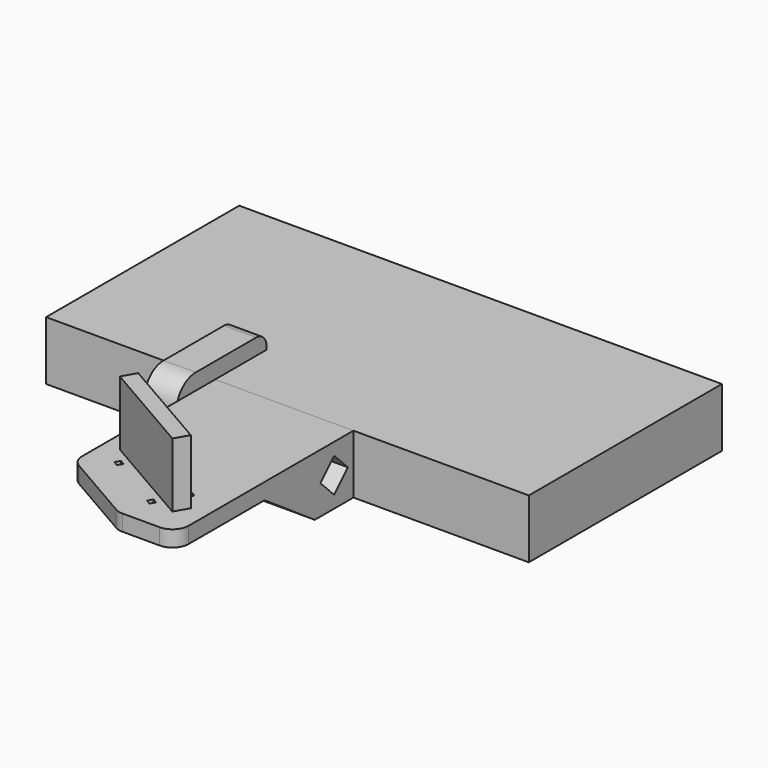
from build123d import *

# Parameters (mm, degrees)
PAD_DEPTH       = 40
SKETCH001_W     = 300
SKETCH001_H     = 150
PAD001_DEPTH    = 36.6
PAD002_DEPTH    = 3
PAD003_DEPTH    = 33.6
POCKET_DEPTH    = 86.001
POCKET001_DEPTH = 86.001
SKETCH006_W     = 45.8
SKETCH006_H     = 36.6
PAD004_DEPTH    = 30
POCKET002_DEPTH = 3
FILLET_R        = 10
PAD005_DEPTH    = 20
PAD006_DEPTH    = 20
FILLET001_R     = 15
FILLET002_R     = 8


with BuildPart() as dish_rack_body:
    # Sketch → Pad (new body)
    with BuildSketch(Plane.XY):
        Polygon((30.310889, -113), (-30.310889, -78), (-35.110889, -86.313844), (25.510889, -121.313844), align=None)
    extrude(amount=PAD_DEPTH)


with BuildPart() as kitchen_counter:
    # Sketch001 → Pad001 (new body)
    with BuildSketch(Plane.XY):
        with Locations((0, 75)):
            Rectangle(SKETCH001_W, SKETCH001_H)
    extrude(amount=-PAD001_DEPTH)


with BuildPart() as rack_bracket:
    # Sketch002 → Pad002 (new body)
    with BuildSketch(Plane.XY):
        Polygon((-45, 0), (41, 0), (41, -138), (5.229473, -138), (-45, -109), align=None)
    extrude(amount=-PAD002_DEPTH)

    # Sketch003 (on Face7 of Pad002) → Pad003 (join)
    with BuildSketch(Plane(origin=(0, 0, -3), x_dir=(1, 0, 0), z_dir=(0, 0, -1))):
        Polygon((-45, 109), (-45, 0), (41, 0), (41, 138), (5.229473, 138), align=None)
        Polygon((-35, 30), (31, 30), (31, 128), (7.908965, 128), (-35, 103.226497), align=None, mode=Mode.SUBTRACT)
    extrude(amount=PAD003_DEPTH)

    # Sketch004 (on Face10 of Pad003) → Pocket (cut, through all)
    with BuildSketch(Plane(origin=(-45, 0, 0), x_dir=(0, -1, 0), z_dir=(-1, 0, 0))):
        Polygon((30, -36.6), (69, -10), (138, -10), (138, -36.6), align=None)
    extrude(amount=-POCKET_DEPTH, mode=Mode.SUBTRACT)

    # Sketch005 (on Face3 of Pocket) → Pocket001 (cut, through all)
    with BuildSketch(Plane.YZ.offset(41)):
        Polygon((-15, -7.622688), (-25.677312, -18.3), (-15, -28.977312), (-4.322688, -18.3), align=None)
    extrude(amount=-POCKET001_DEPTH, mode=Mode.SUBTRACT)

    # Sketch006 (on Face2 of Pocket001) → Pad004 (join)
    with BuildSketch(Plane(origin=(0, 0, 0), x_dir=(-1, 0, 0), z_dir=(0, 1, 0))):
        with Locations((2, -18.3)):
            Rectangle(SKETCH006_W, SKETCH006_H)
    extrude(amount=-PAD004_DEPTH)

    # Sketch007 (on Face23 of Pad004) → Pocket002 (cut)
    with BuildSketch(Plane.XY):
        Polygon((-19.019238, -81), (-17.287187, -78), (-14.287187, -79.732051), (-16.019238, -82.732051), align=None)
        Polygon((18.621778, -102.732051), (20.353829, -99.732051), (23.353829, -101.464102), (21.621778, -104.464102), align=None)
        Polygon((-27.246479, -95.25), (-28.97853, -98.25), (-25.97853, -99.982051), (-24.246479, -96.982051), align=None)
        Polygon((10.394537, -116.982051), (8.662486, -119.982051), (11.662486, -121.714102), (13.394537, -118.714102), align=None)
    extrude(amount=-POCKET002_DEPTH, mode=Mode.SUBTRACT)

    # Fillet
    fillet_edges = [rack_bracket.edges().sort_by_distance(p)[0] for p in [
        (-45, -109, -5),
        (5.229473, -138, -5),
        (41, -138, -5),
    ]]
    fillet(fillet_edges, radius=FILLET_R)


with BuildPart() as support_bracket:
    # Sketch008 (on Face12 of ShapeBinder) → Pad005 (new body)
    with BuildSketch(Plane(origin=(-45, 0, 0), x_dir=(0, -1, 0), z_dir=(-1, 0, 0))):
        Polygon((0, 0), (-40, 0), (-40, 10), (30, 10), (30, -46.6), (-40, -46.6), (-40, -36.6), (0, -36.6), align=None)
    extrude(amount=PAD005_DEPTH)

    # Sketch009 (on Face9 of Pad005) → Pad006 (join)
    with BuildSketch(Plane.YZ.offset(-45)):
        Polygon((-15, -7.693398), (-4.393398, -18.3), (-15, -28.906602), (-25.606602, -18.3), align=None)
    extrude(amount=PAD006_DEPTH)

    # Fillet001
    fillet001_edges = [support_bracket.edges().sort_by_distance(p)[0] for p in [
        (-55, -30, -46.6),
        (-55, -30, 10),
    ]]
    fillet(fillet001_edges, radius=FILLET001_R)

    # Fillet002
    fillet002_edges = [support_bracket.edges().sort_by_distance(p)[0] for p in [
        (-55, 40, 10),
        (-55, 40, -46.6),
    ]]
    fillet(fillet002_edges, radius=FILLET002_R)


solid = Compound([dish_rack_body.part, kitchen_counter.part, rack_bracket.part, support_bracket.part])
